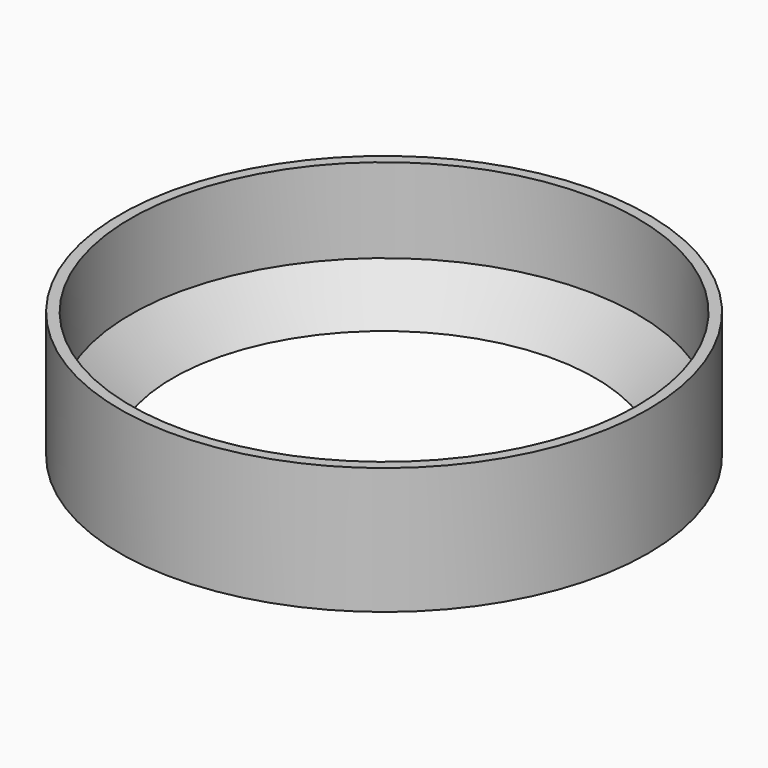
from build123d import *

# Parameters (mm, degrees)
CYLINDER_R      = 1250
CYLINDER_DEPTH  = 600
SKETCH001_R     = 1200
POCKET_DEPTH    = 400
SKETCH_R        = 1000
POCKET001_DEPTH = 200
CHAMFER_SIZE    = 199.99


with BuildPart() as part:
    # Cylinder → Cylinder (new body)
    with BuildSketch(Plane.XY):
        Circle(CYLINDER_R)
    extrude(amount=CYLINDER_DEPTH)

    # Sketch001 → Pocket (cut)
    with BuildSketch(Plane.XY.offset(600)):
        Circle(SKETCH001_R)
    extrude(amount=-POCKET_DEPTH, mode=Mode.SUBTRACT)

    # Sketch → Pocket001 (cut)
    with BuildSketch(Plane.XY.offset(200)):
        Circle(SKETCH_R)
    extrude(amount=-POCKET001_DEPTH, mode=Mode.SUBTRACT)

    # Chamfer
    chamfer_edges = [part.edges().sort_by_distance(p)[0] for p in [
        (-1000, 0, 200),
    ]]
    chamfer(chamfer_edges, length=CHAMFER_SIZE)


solid = part.part
